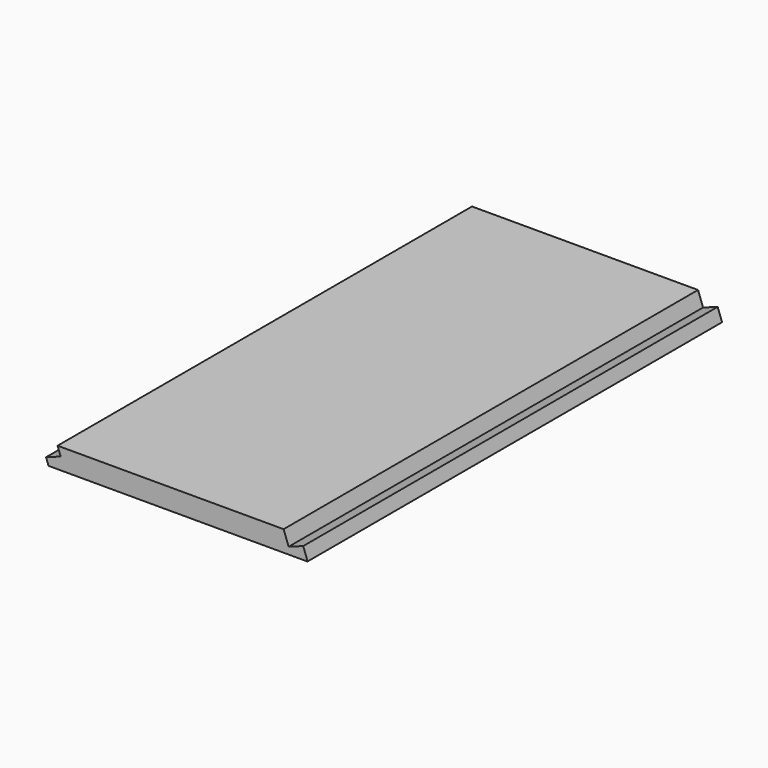
from build123d import *

# Parameters (mm, degrees)
BOX018_W               = 15
BOX018_H               = 100
BOX018_DEPTH           = 3
BOX017_W               = 15
BOX017_H               = 100
BOX017_DEPTH           = 3
BOX016_W               = 27
BOX016_H               = 100
BOX016_DEPTH           = 3
BOX015_W               = 27
BOX015_H               = 100
BOX015_DEPTH           = 3
BOX014_W               = 4
BOX014_H               = 100
BOX014_DEPTH           = 51
BOX014_PITCH_ANGLE     = 20
CUT012_PLACEMENT_ANGLE = 110


with BuildPart() as ranura_superior:
    # Box018 → Box018 (new body)
    with BuildSketch(Plane(origin=(16, 0, 44), x_dir=(1, 0, 0), z_dir=(0, 0, 1))):
        with Locations((7.5, 50)):
            Rectangle(BOX018_W, BOX018_H)
    extrude(amount=BOX018_DEPTH)


with BuildPart() as obj1:
    # Box017 → Box017 (new body)
    with BuildSketch(Plane.XY):
        with Locations((7.5, 50)):
            Rectangle(BOX017_W, BOX017_H)
    extrude(amount=BOX017_DEPTH)


with BuildPart() as obj2:
    # Box016 → Box016 (new body)
    with BuildSketch(Plane(origin=(5, 0, 47), x_dir=(1, 0, 0), z_dir=(0, 0, 1))):
        with Locations((13.5, 50)):
            Rectangle(BOX016_W, BOX016_H)
    extrude(amount=BOX016_DEPTH)


with BuildPart() as obj3:
    # Box015 → Box015 (new body)
    with BuildSketch(Plane(origin=(-9, 0, -3), x_dir=(1, 0, 0), z_dir=(0, 0, 1))):
        with Locations((13.5, 50)):
            Rectangle(BOX015_W, BOX015_H)
    extrude(amount=BOX015_DEPTH)


with BuildPart() as obj4:
    # Box014 → Box014 (new body)
    with BuildSketch(Plane.XY):
        with Locations((2, 50)):
            Rectangle(BOX014_W, BOX014_H)
    extrude(amount=BOX014_DEPTH)


with BuildPart() as obj4_1:
    # Box014 pitch: moved
    add(obj4.part.rotate(Axis((0, 0, 0), (0, 1, 0)), BOX014_PITCH_ANGLE))


with BuildPart() as obj4_2:
    # Box014 placement: moved
    add(obj4_1.part.moved(Location((-2.499695, 0, 0.034905))))

    # Cut009: cut obj3
    add(obj3.part, mode=Mode.SUBTRACT)

    # Cut010: cut obj2
    add(obj2.part, mode=Mode.SUBTRACT)

    # Cut011: cut obj1
    add(obj1.part, mode=Mode.SUBTRACT)

    # Cut012: cut ranura superior
    add(ranura_superior.part, mode=Mode.SUBTRACT)


with BuildPart() as obj4_3:
    # Cut012 placement: moved
    add(obj4_2.part.moved(Location((0, 0, 3))).rotate(Axis((0, 0, 3), (0, -1, 0)), CUT012_PLACEMENT_ANGLE))


solid = obj4_3.part
